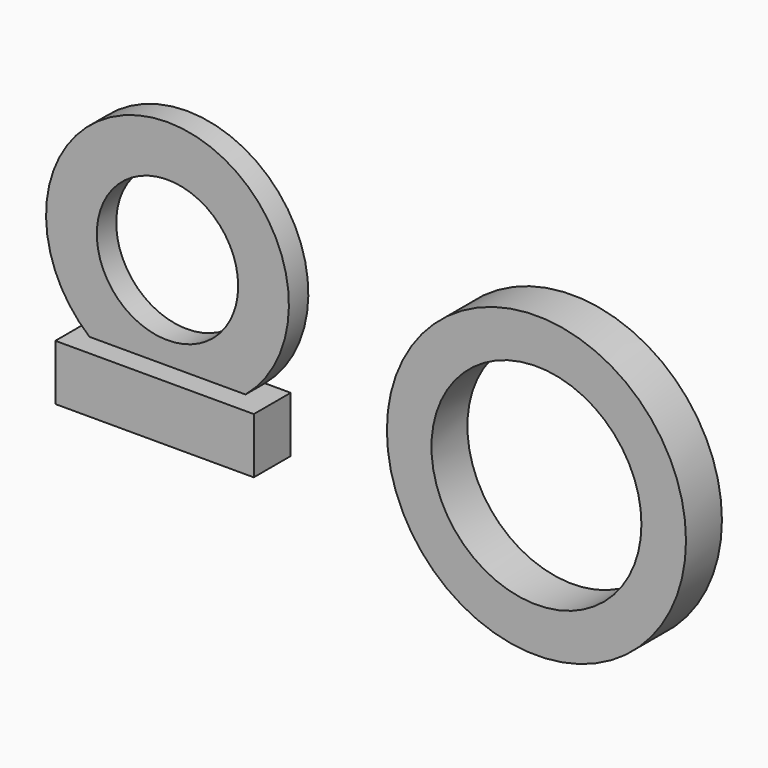
from build123d import *

# Parameters (mm, degrees)
F0_R     = 10.004828
F0_R_2   = 5.823893
F1_DEPTH = 2
F2_W     = 16.352459
F2_H     = 4.590163
F3_DEPTH = 3.8
F4_R     = 12.322716
F4_R_2   = 8.650835
F5_DEPTH = 3.7


with BuildPart() as f1:
    # F0 (on Front) → F1 (new body)
    with BuildSketch(Plane.XZ):
        with Locations((-21.460718, 33.342637)):
            Circle(F0_R)
        with Locations((-21.460718, 33.342637)):
            Circle(F0_R_2, mode=Mode.SUBTRACT)
    extrude(amount=F1_DEPTH)

    # F2 (on Front) → F3 (join)
    with BuildSketch(Plane.XZ):
        with Locations((-21.086065, 23.381149)):
            Rectangle(F2_W, F2_H)
    extrude(amount=F3_DEPTH)


with BuildPart() as f5:
    # F4 (on Front) → F5 (new body)
    with BuildSketch(Plane.XZ):
        with Locations((10.300001, 28.003922)):
            Circle(F4_R)
        with Locations((10.300001, 28.003922)):
            Circle(F4_R_2, mode=Mode.SUBTRACT)
    extrude(amount=F5_DEPTH)


solid = Compound([f1.part, f5.part])
